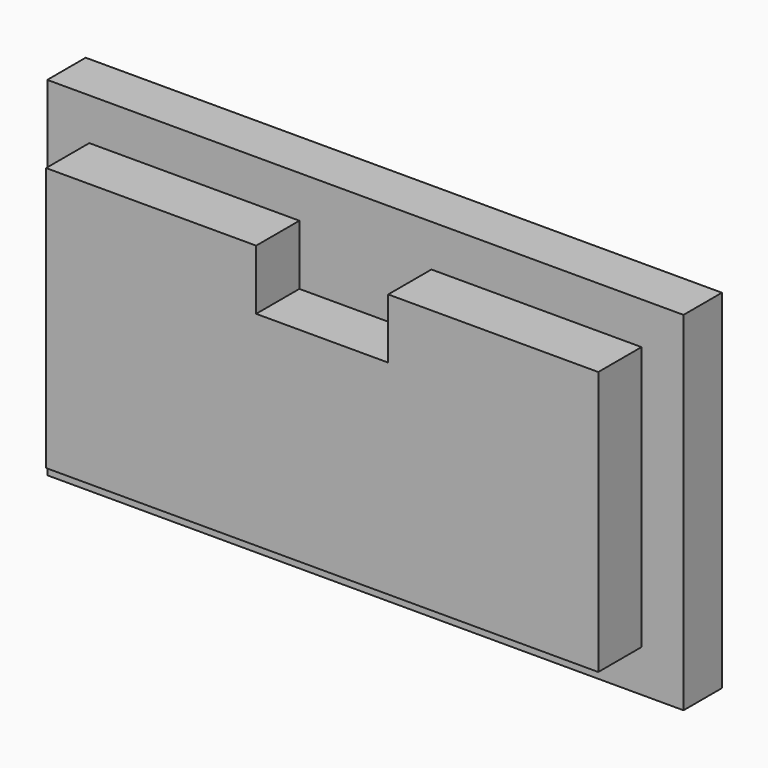
from build123d import *

# Parameters (mm, degrees)
F0_W     = 5.5
F0_H     = 3.5
F1_DEPTH = 4
F2_DEPTH = 8.5
F3_DEPTH = 1


with BuildPart() as f1:
    # F0 (on Front) → F1 (new body)
    with BuildSketch(Plane.XZ):
        Polygon((-5.5, 14.5), (-26.5, 14.5), (-26.5, -14.5), (26.5, -14.5), (26.5, 14.5), (5.5, 14.5), (5.5, 11), (23, 11), (23, -11), (-23, -11), (-23, 11), (-5.5, 11), align=None)
        with Locations((-2.75, 12.75)):
            Rectangle(F0_W, F0_H)
        with Locations((2.75, 12.75)):
            Rectangle(F0_W, F0_H)
        Polygon((0, 11), (-5.5, 11), (-5.5, 6), (5.5, 6), (5.5, 11), align=None)
    extrude(amount=F1_DEPTH)

    # F0 (on Front) → F2 (join)
    with BuildSketch(Plane.XZ):
        Polygon((-5.5, 6), (-5.5, 11), (-23, 11), (-23, -11), (23, -11), (23, 11), (5.5, 11), (5.5, 6), align=None)
    extrude(amount=F2_DEPTH)

    # F0 (on Front) → F3 (join)
    with BuildSketch(Plane.XZ):
        with Locations((-2.75, 12.75)):
            Rectangle(F0_W, F0_H)
        with Locations((2.75, 12.75)):
            Rectangle(F0_W, F0_H)
        Polygon((0, 11), (-5.5, 11), (-5.5, 6), (5.5, 6), (5.5, 11), align=None)
    extrude(amount=F3_DEPTH)


solid = f1.part
